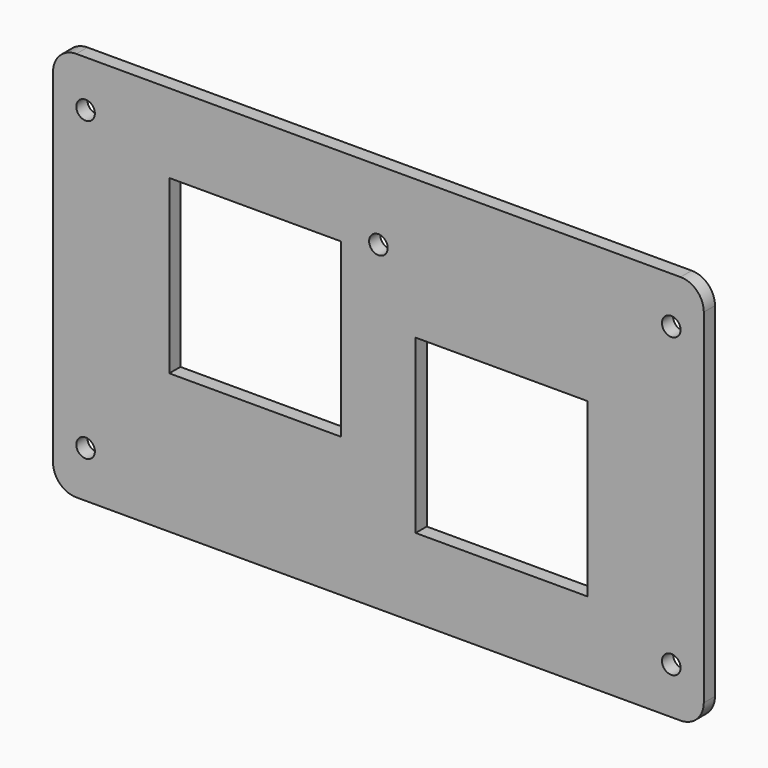
from build123d import *

# Parameters (mm, degrees)
F0_R     = 2
F0_W     = 37
F0_H     = 37
F1_DEPTH = 3


with BuildPart() as f1:
    # F0 (on Front) → F1 (new body)
    with BuildSketch(Plane.XZ):
        with BuildLine():
            Line((65, 42), (-65, 42))
            ThreePointArc((-65, 42), (-68.535534, 40.535534), (-70, 37))
            Line((-70, 37), (-70, -37))
            ThreePointArc((-70, -37), (-68.535534, -40.535534), (-65, -42))
            Line((-65, -42), (65, -42))
            ThreePointArc((65, -42), (68.535534, -40.535534), (70, -37))
            Line((70, -37), (70, 37))
            ThreePointArc((70, 37), (68.535534, 40.535534), (65, 42))
        make_face()
        with Locations((-63, -32)):
            Circle(F0_R, mode=Mode.SUBTRACT)
        with Locations((63, -32)):
            Circle(F0_R, mode=Mode.SUBTRACT)
        with Locations((26.5, -6.5)):
            Rectangle(F0_W, F0_H, mode=Mode.SUBTRACT)
        with Locations((-26.5, 6.5)):
            Rectangle(F0_W, F0_H, mode=Mode.SUBTRACT)
        with Locations((-63, 32)):
            Circle(F0_R, mode=Mode.SUBTRACT)
        with Locations((0, 27)):
            Circle(F0_R, mode=Mode.SUBTRACT)
        with Locations((63, 32)):
            Circle(F0_R, mode=Mode.SUBTRACT)
    extrude(amount=F1_DEPTH)


solid = f1.part
